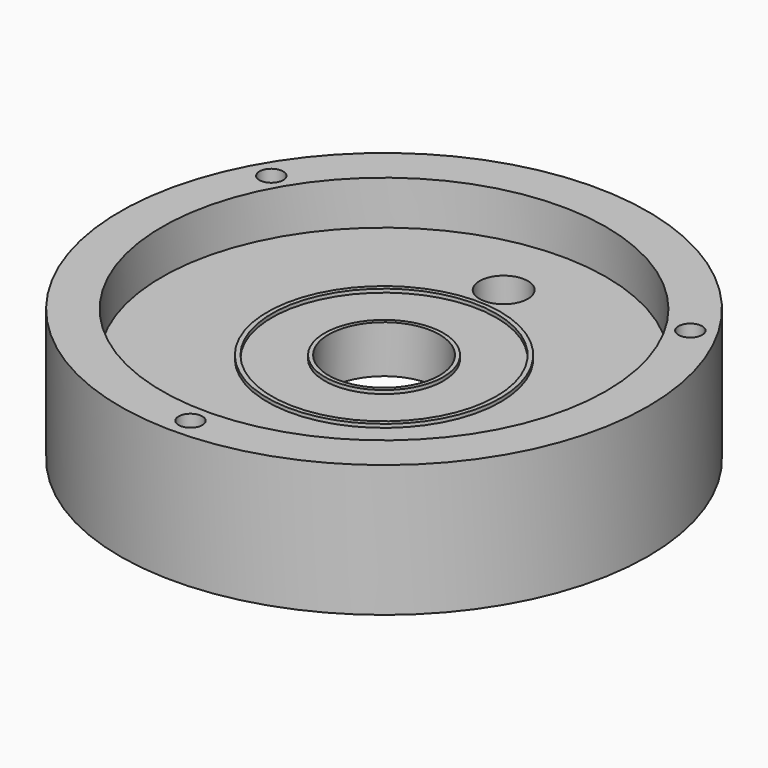
from build123d import *

# Parameters (mm, degrees)
F0_R      = 30
F1_DEPTH  = 10
F2_R      = 25.25
F3_DEPTH  = 5
F4_R      = 6.3
F5_DEPTH  = 10.001
F6_R      = 1.35
F7_DEPTH  = 10.001
F8_R      = 2.75
F9_DEPTH  = 5.001
F10_R     = 30
F10_R_2   = 20
F11_DEPTH = 5
F12_W     = 30
F12_H     = 24.7647633499
F13_DEPTH = 5
F14_R     = 13.25
F14_R_2   = 12.75
F14_R_3   = 6.75
F14_R_4   = 6.3
F15_DEPTH = 0.4


with BuildPart() as f1:
    # F0 (on Top) → F1 (new body)
    with BuildSketch(Plane.XY):
        Circle(F0_R)
    extrude(amount=F1_DEPTH)

    # F2 (on face) → F3 (cut)
    with BuildSketch(Plane.XY.offset(10)):
        Circle(F2_R)
    extrude(amount=-F3_DEPTH, mode=Mode.SUBTRACT)

    # F4 (on Top) → F5 (cut, through all)
    with BuildSketch(Plane.XY):
        Circle(F4_R)
    extrude(amount=F5_DEPTH, mode=Mode.SUBTRACT)

    # F6 (on face) → F7 (cut, through all)
    with BuildSketch(Plane.XY.offset(10)):
        with Locations((23.8156986041, 13.75)):
            Circle(F6_R)
        with Locations((0, -27.5)):
            Circle(F6_R)
        with Locations((-23.8156986041, 13.75)):
            Circle(F6_R)
    extrude(amount=-F7_DEPTH, mode=Mode.SUBTRACT)

    # F8 (on face) → F9 (cut, through all)
    with BuildSketch(Plane.XY.offset(5)):
        with Locations((0, 17)):
            Circle(F8_R)
    extrude(amount=-F9_DEPTH, mode=Mode.SUBTRACT)

    # F10 (on face) → F11 (join)
    with BuildSketch(Plane(origin=(0, 0, 0), x_dir=(1, 0, 0), z_dir=(0, 0, -1))):
        Circle(F10_R)
        Circle(F10_R_2, mode=Mode.SUBTRACT)
    extrude(amount=F11_DEPTH)

    # F12 (on Top) → F13 (cut)
    with BuildSketch(Plane.XY):
        with Locations((0, 20.9111002412)):
            Rectangle(F12_W, F12_H)
    extrude(amount=-F13_DEPTH, mode=Mode.SUBTRACT)

    # F14 (on face) → F15 (join)
    with BuildSketch(Plane.XY.offset(5)):
        Circle(F14_R)
        Circle(F14_R_2, mode=Mode.SUBTRACT)
        Circle(F14_R_3)
        Circle(F14_R_4, mode=Mode.SUBTRACT)
    extrude(amount=F15_DEPTH)


solid = f1.part
